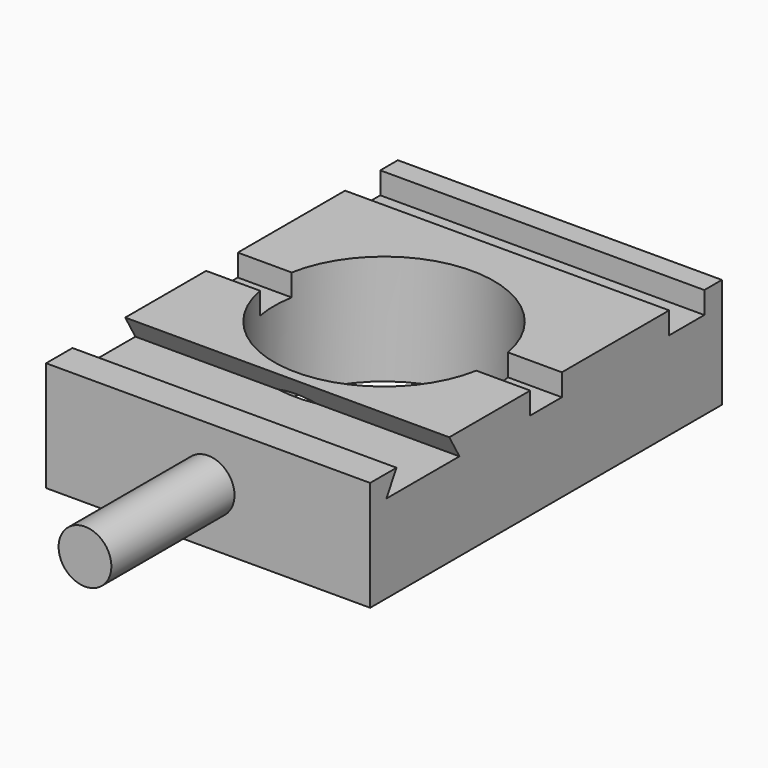
from build123d import *

# Parameters (mm, degrees)
F1_W      = 73.6989242806
F1_H      = 100
F1_R      = 25
F2_DEPTH  = 100
F3_W      = 73.6989242806
F3_H      = 10
F4_DEPTH  = 5
F6_DEPTH  = 73.6989242806
F0_W      = 73.6989242806
F0_H      = 100
F7_DEPTH  = 75
F8_DEPTH  = 75
F9_R      = 6
F10_DEPTH = 35


with BuildPart() as f2:
    # F1 (on face) → F2 (new body)
    with BuildSketch(Plane.XY):
        Rectangle(F1_W, F1_H)
        Circle(F1_R, mode=Mode.SUBTRACT)
    extrude(amount=F2_DEPTH)

    # F3 (on face) → F4 (cut)
    with BuildSketch(Plane.XY.offset(100)):
        with BuildLine():
            Line((-24.5916652547, 4.5), (-36.8494621403, 4.5))
            Line((-36.8494621403, 4.5), (-36.8494621403, -4.5))
            Line((-36.8494621403, -4.5), (-24.5916652547, -4.5))
            ThreePointArc((-24.5916652547, -4.5), (-25, 0), (-24.5916652547, 4.5))
        make_face()
        with BuildLine():
            Line((36.8494621403, -4.5), (36.8494621403, 4.5))
            Line((36.8494621403, 4.5), (24.5916652547, 4.5))
            ThreePointArc((24.5916652547, 4.5), (24.8977070367, 2.2592441913), (25, 0))
            ThreePointArc((25, 0), (24.8977070367, -2.2592441913), (24.5916652547, -4.5))
            Line((24.5916652547, -4.5), (36.8494621403, -4.5))
        make_face()
        with Locations((0, 40)):
            Rectangle(F3_W, F3_H)
    extrude(amount=-F4_DEPTH, mode=Mode.SUBTRACT)

    # F5 (on face) → F6 (cut, through all)
    with BuildSketch(Plane(origin=(-36.8494621403, 0, 0), x_dir=(0, -1, 0), z_dir=(-1, 0, 0))):
        Polygon((42.5, 100), (27.5, 100), (24.6132486541, 95), (45.3867513459, 95), align=None)
    extrude(amount=-F6_DEPTH, mode=Mode.SUBTRACT)

    # F0 (on Top) → F7 (cut)
    with BuildSketch(Plane.XY):
        Rectangle(F0_W, F0_H)
    extrude(amount=-F7_DEPTH, mode=Mode.SUBTRACT)

    # F8 (cut): a face of the model
    f8_faces = [f2.faces().sort_by_distance(p)[0] for p in [
        (0, -48.7577628471, 0),
    ]]
    extrude(f8_faces, amount=-F8_DEPTH, mode=Mode.SUBTRACT)

    # F9 (on face) → F10 (join)
    with BuildSketch(Plane.XZ.offset(50)):
        with Locations((0, 87.5)):
            Circle(F9_R)
    extrude(amount=F10_DEPTH)


solid = f2.part
